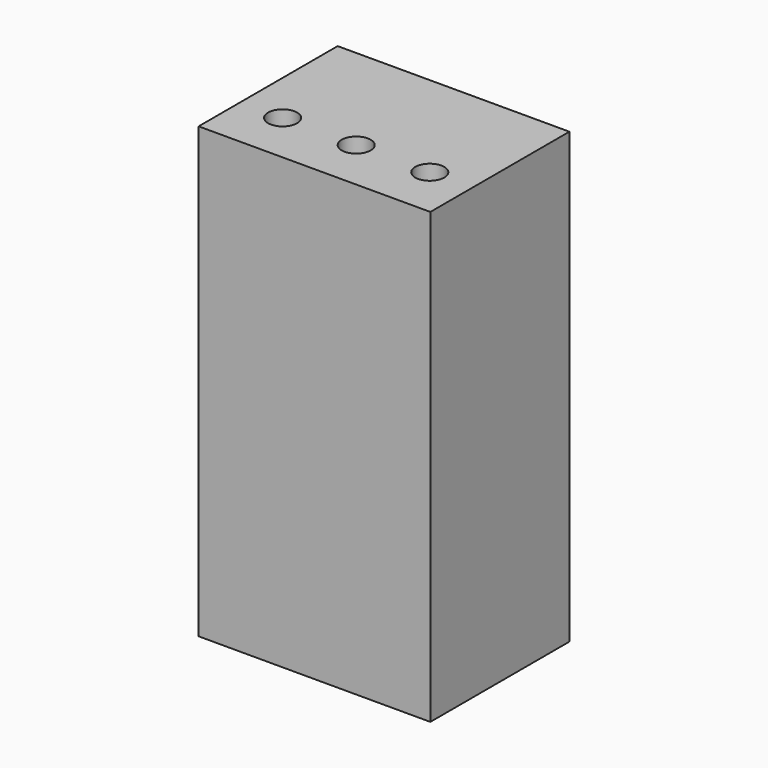
from build123d import *

# Parameters (mm, degrees)
SKETCH_W  = 8
SKETCH_H  = 6
SKETCH_R  = 0.5
PAD_DEPTH = 15.5


with BuildPart() as part:
    # Sketch → Pad (new body)
    with BuildSketch(Plane.XY):
        with Locations((4, 3)):
            Rectangle(SKETCH_W, SKETCH_H)
        with Locations((1.46, 1.8)):
            Circle(SKETCH_R, mode=Mode.SUBTRACT)
        with Locations((4, 1.8)):
            Circle(SKETCH_R, mode=Mode.SUBTRACT)
        with Locations((6.54, 1.8)):
            Circle(SKETCH_R, mode=Mode.SUBTRACT)
    extrude(amount=PAD_DEPTH)


solid = part.part
